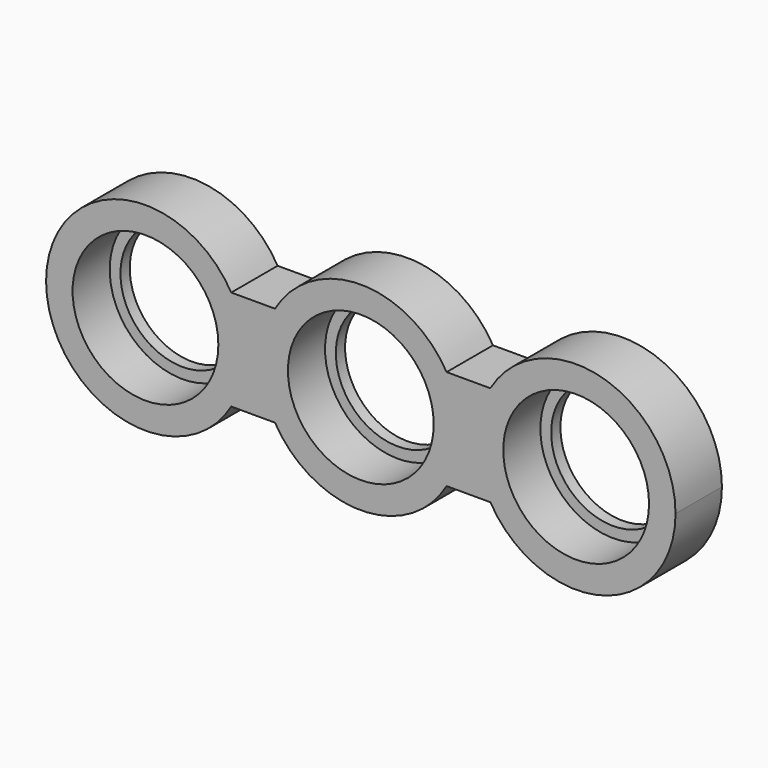
from build123d import *

# Parameters (mm, degrees)
F1_DEPTH = 8.89
F2_R     = 9.525
F3_DEPTH = 9.144
F4_R     = 11.176
F5_DEPTH = 7.112


with BuildPart() as f1:
    # F0 (on Front) → F1 (new body)
    with BuildSketch(Plane.XZ):
        with BuildLine():
            Line((33.02, 7.69326929), (33.02, -7.69326929))
            Line((33.02, -7.69326929), (19.8643469326, -7.69326929))
            ThreePointArc((19.8643469326, -7.69326929), (37.0053134916, -14.7096864812), (48.26, 0))
            ThreePointArc((48.26, 0), (37.0053134916, 14.7096864812), (19.8643469326, 7.69326929))
            Line((19.8643469326, 7.69326929), (33.02, 7.69326929))
        make_face()
        with BuildLine():
            Line((19.8643469326, -7.69326929), (33.02, -7.69326929))
            Line((33.02, -7.69326929), (33.02, 7.69326929))
            Line((33.02, 7.69326929), (19.8643469326, 7.69326929))
            ThreePointArc((19.8643469326, 7.69326929), (17.78, 0), (19.8643469326, -7.69326929))
        make_face()
        with BuildLine():
            Line((13.1556530674, -7.69326929), (19.8643469326, -7.69326929))
            ThreePointArc((19.8643469326, -7.69326929), (17.78, 0), (19.8643469326, 7.69326929))
            Line((19.8643469326, 7.69326929), (13.1556530674, 7.69326929))
            ThreePointArc((13.1556530674, 7.69326929), (14.7096864812, 3.9853134916), (15.24, 0))
            ThreePointArc((15.24, 0), (14.7096864812, -3.9853134916), (13.1556530674, -7.69326929))
        make_face()
        with BuildLine():
            ThreePointArc((-13.1556530674, -7.69326929), (0, -15.24), (13.1556530674, -7.69326929))
            Line((13.1556530674, -7.69326929), (-13.1556530674, -7.69326929))
        make_face()
        with BuildLine():
            Line((-13.1556530674, -7.69326929), (13.1556530674, -7.69326929))
            ThreePointArc((13.1556530674, -7.69326929), (14.7096864812, -3.9853134916), (15.24, 0))
            ThreePointArc((15.24, 0), (14.7096864812, 3.9853134916), (13.1556530674, 7.69326929))
            Line((13.1556530674, 7.69326929), (-13.1556530674, 7.69326929))
            ThreePointArc((-13.1556530674, 7.69326929), (-15.24, 0), (-13.1556530674, -7.69326929))
        make_face()
        with BuildLine():
            Line((-19.8643469326, -7.69326929), (-13.1556530674, -7.69326929))
            ThreePointArc((-13.1556530674, -7.69326929), (-15.24, 0), (-13.1556530674, 7.69326929))
            Line((-13.1556530674, 7.69326929), (-19.8643469326, 7.69326929))
            ThreePointArc((-19.8643469326, 7.69326929), (-18.3103135188, 3.9853134916), (-17.78, 0))
            ThreePointArc((-17.78, 0), (-18.3103135188, -3.9853134916), (-19.8643469326, -7.69326929))
        make_face()
        with BuildLine():
            Line((-13.1556530674, 7.69326929), (13.1556530674, 7.69326929))
            ThreePointArc((13.1556530674, 7.69326929), (0, 15.24), (-13.1556530674, 7.69326929))
        make_face()
        with BuildLine():
            ThreePointArc((-19.8643469326, 7.69326929), (-48.26, 0), (-19.8643469326, -7.69326929))
            Line((-19.8643469326, -7.69326929), (-33.02, -7.69326929))
            Line((-33.02, -7.69326929), (-33.02, 7.69326929))
            Line((-33.02, 7.69326929), (-19.8643469326, 7.69326929))
        make_face()
        with BuildLine():
            Line((-33.02, -7.69326929), (-19.8643469326, -7.69326929))
            ThreePointArc((-19.8643469326, -7.69326929), (-18.3103135188, -3.9853134916), (-17.78, 0))
            ThreePointArc((-17.78, 0), (-18.3103135188, 3.9853134916), (-19.8643469326, 7.69326929))
            Line((-19.8643469326, 7.69326929), (-33.02, 7.69326929))
            Line((-33.02, 7.69326929), (-33.02, -7.69326929))
        make_face()
    extrude(amount=F1_DEPTH)

    # F2 (on face) → F3 (cut)
    with BuildSketch(Plane.XZ.offset(8.89)):
        Circle(F2_R)
        with Locations((33.02, 0)):
            Circle(F2_R)
        with Locations((-33.02, 0)):
            Circle(F2_R)
    extrude(amount=-F3_DEPTH, mode=Mode.SUBTRACT)

    # F4 (on face) → F5 (cut)
    with BuildSketch(Plane.XZ.offset(8.89)):
        Circle(F4_R)
        with Locations((-33.02, 0)):
            Circle(F4_R)
        with Locations((33.02, 0)):
            Circle(F4_R)
    extrude(amount=-F5_DEPTH, mode=Mode.SUBTRACT)


solid = f1.part
